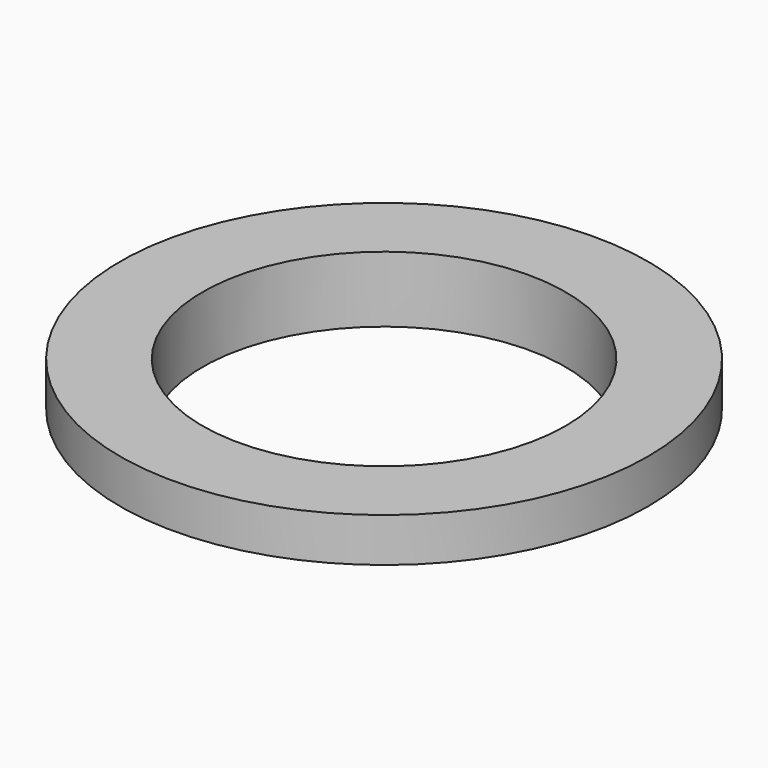
from build123d import *

# Parameters (mm, degrees)
TUBE001_R     = 9.5
TUBE001_R_2   = 8.25
TUBE001_DEPTH = 1
TUBE_R        = 12
TUBE_R_2      = 8.25
TUBE_DEPTH    = 2


with BuildPart() as tube001:
    # Tube001 → Tube001 (new body)
    with BuildSketch(Plane.XY):
        Circle(TUBE001_R)
        Circle(TUBE001_R_2, mode=Mode.SUBTRACT)
    extrude(amount=TUBE001_DEPTH)


with BuildPart() as fusion:
    # Tube → Tube (new body)
    with BuildSketch(Plane.XY.offset(1)):
        Circle(TUBE_R)
        Circle(TUBE_R_2, mode=Mode.SUBTRACT)
    extrude(amount=TUBE_DEPTH)

    # Fusion: union Tube001
    add(tube001.part)


solid = fusion.part
